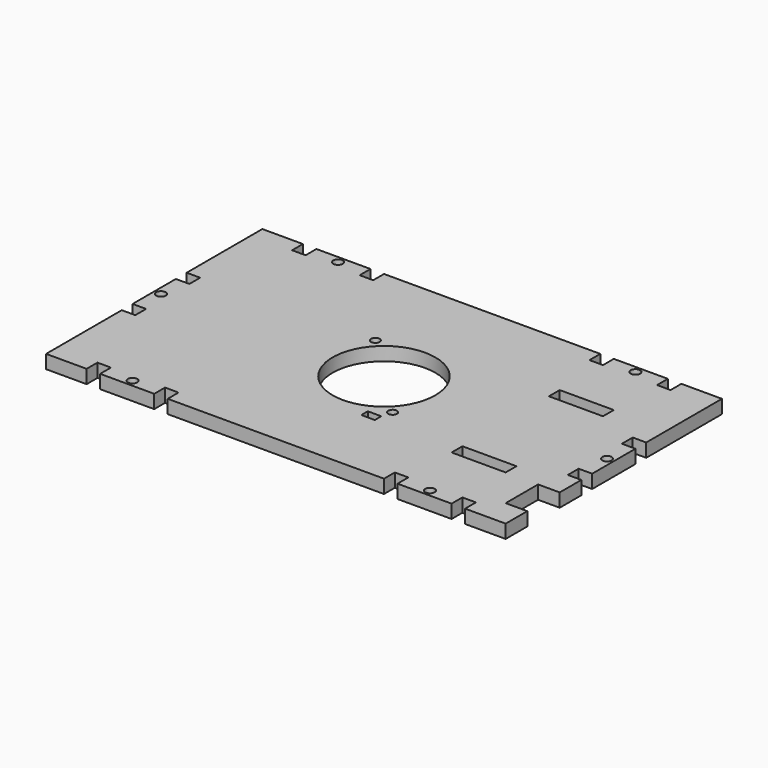
from build123d import *

# Parameters (mm, degrees)
F0_R     = 1.75
F0_W     = 5
F0_H     = 3
F0_R_2   = 1.6
F0_W_2   = 20
F0_H_2   = 5
F0_R_3   = 19
F1_DEPTH = 5


with BuildPart() as f1:
    # F0 (on Top) → F1 (new body)
    with BuildSketch(Plane.XY):
        Polygon((15, 100), (0, 100), (0, 65), (5, 65), (5, 60), (0, 60), (0, 40), (5, 40), (5, 35), (0, 35), (0, 0), (15, 0), (15, 5), (20, 5), (20, 0), (40, 0), (40, 5), (45, 5), (45, 0), (125, 0), (125, 5), (130, 5), (130, 0), (150, 0), (150, 5), (155, 5), (155, 0), (170, 0), (170, 10), (162, 10), (162, 25), (170, 25), (170, 35), (165, 35), (165, 40), (170, 40), (170, 60), (165, 60), (165, 65), (170, 65), (170, 100), (155, 100), (155, 95), (150, 95), (150, 100), (130, 100), (130, 95), (125, 95), (125, 100), (45, 100), (45, 95), (40, 95), (40, 100), (20, 100), (20, 95), (15, 95), align=None)
        with Locations((30, 2.5)):
            Circle(F0_R, mode=Mode.SUBTRACT)
        with Locations((140, 2.5)):
            Circle(F0_R, mode=Mode.SUBTRACT)
        with Locations((97.5, 28.5)):
            Rectangle(F0_W, F0_H, mode=Mode.SUBTRACT)
        with Locations((101, 34)):
            Circle(F0_R_2, mode=Mode.SUBTRACT)
        with Locations((140, 27.5)):
            Rectangle(F0_W_2, F0_H_2, mode=Mode.SUBTRACT)
        with Locations((2.5, 50)):
            Circle(F0_R, mode=Mode.SUBTRACT)
        with Locations((69, 66)):
            Circle(F0_R_2, mode=Mode.SUBTRACT)
        with Locations((30, 97.5)):
            Circle(F0_R, mode=Mode.SUBTRACT)
        with Locations((85, 50)):
            Circle(F0_R_3, mode=Mode.SUBTRACT)
        with Locations((167.5, 50)):
            Circle(F0_R, mode=Mode.SUBTRACT)
        with Locations((140, 72.5)):
            Rectangle(F0_W_2, F0_H_2, mode=Mode.SUBTRACT)
        with Locations((140, 97.5)):
            Circle(F0_R, mode=Mode.SUBTRACT)
    extrude(amount=F1_DEPTH)


solid = f1.part
